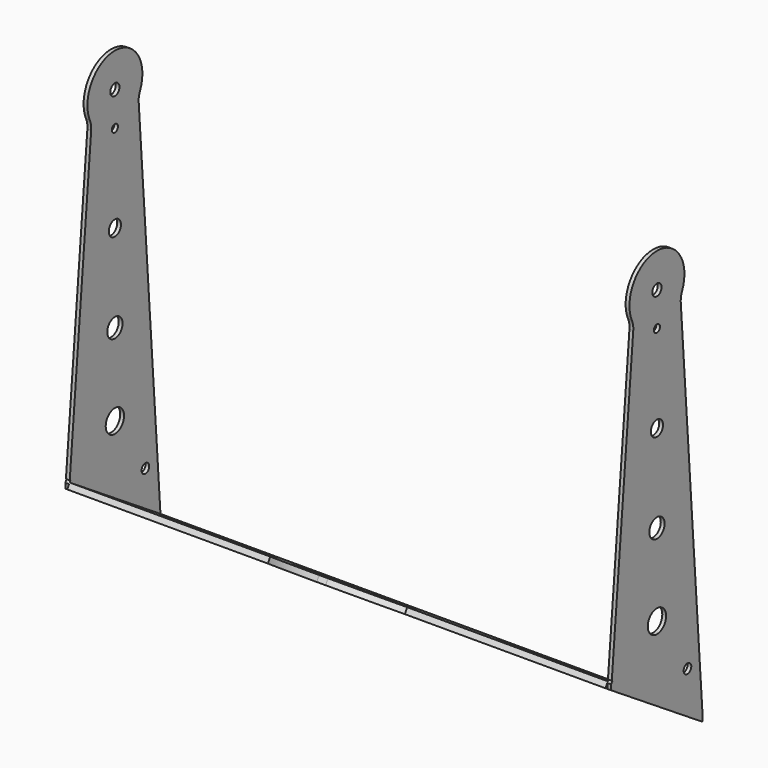
from build123d import *

# Parameters (mm, degrees)
F1_DEPTH  = 30
F5_W      = 282
F5_H      = 120
F6_DEPTH  = 3
F7_W      = 43.7729824334
F7_H      = 28.8367732428
F8_DEPTH  = 200
F9_W      = 426.6595542431
F9_H      = 302.5457262993
F10_DEPTH = 178.83968
F12_DEPTH = 3.8062
F13_R     = 5
F14_DEPTH = 5.03518
F16_DEPTH = 250
F17_R     = 3
F17_R_2   = 2
F17_R_3   = 4
F17_R_4   = 5
F17_R_5   = 6
F17_R_6   = 2.5
F18_DEPTH = 160


with BuildPart() as f1:
    # F0 (on Front) → F1 (new body, symmetric)
    with BuildSketch(Plane.XZ):
        Polygon((-143, 230), (-143, 0), (143, 0), (143, 230), (141, 230), (141, 2), (-141, 2), (-141, 230), align=None)
    extrude(amount=F1_DEPTH, both=True)

    # F5 (on line) → F6 (join)
    with BuildSketch(Plane(origin=(0, 9.1354545764, 14.0673664308), x_dir=(1, 0, 0), z_dir=(0, 0.544639035, 0.8386705679))):
        Rectangle(F5_W, F5_H)
    extrude(amount=F6_DEPTH)

    # F7 (on Right) → F8 (cut, symmetric)
    with BuildSketch(Plane.YZ):
        with Locations((51.9040221355, -7.7139467467)):
            Rectangle(F7_W, F7_H)
    extrude(amount=F8_DEPTH, both=True, mode=Mode.SUBTRACT)

    # F9 (on line) → F10 (cut)
    with BuildSketch(Plane(origin=(0, 9.1354545764, 14.0673664308), x_dir=(1, 0, 0), z_dir=(0, 0.544639035, 0.8386705679))):
        Rectangle(F9_W, F9_H)
    extrude(amount=-F10_DEPTH, mode=Mode.SUBTRACT)

    # F11 (on line) → F12 (cut)
    with BuildSketch(Plane(origin=(0, 9.1354545764, 14.0673664308), x_dir=(1, 0, 0), z_dir=(0, 0.544639035, 0.8386705679))):
        with BuildLine():
            Line((-35.8740181322, -48.1499919599), (-147.1929774903, -48.1499919599))
            Line((-147.1929774903, -48.1499919599), (-147.1929774903, -83.3061976281))
            Line((-147.1929774903, -83.3061976281), (146.3554831755, -83.3061976281))
            Line((146.3554831755, -83.3061976281), (146.3554831755, -48.1499919599))
            Line((146.3554831755, -48.1499919599), (35.8740181322, -48.1499919599))
            ThreePointArc((35.8740181322, -48.1499919599), (0, -60.0447075327), (-35.8740181322, -48.1499919599))
        make_face()
    extrude(amount=F12_DEPTH, mode=Mode.SUBTRACT)

    # F13 (on line) → F14 (cut)
    with BuildSketch(Plane(origin=(0, 9.1354545764, 14.0673664308), x_dir=(1, 0, 0), z_dir=(0, 0.544639035, 0.8386705679))):
        with Locations((0, -10.8780780347)):
            Circle(F13_R)
        with BuildLine():
            ThreePointArc((0, -40.4202267205), (2.1637354956, -42.2413960688), (2.9932901548, -44.9451431276))
            ThreePointArc((2.9932901548, -44.9451431276), (4.9922933203, -44.7672054535), (6.9813866372, -44.5004035637))
            ThreePointArc((6.9813866372, -44.5004035637), (5.3606612707, -41.2920368002), (2.0064089085, -40))
            Line((2.0064089085, -40), (1.8917191601, -40))
            ThreePointArc((1.8917191601, -40), (1.8377091807, -40.0025177501), (1.7836958509, -40.0049625733))
            ThreePointArc((1.7836958509, -40.0049625733), (0.8726729327, -40.1302317573), (0, -40.4202267205))
        make_face()
        with BuildLine():
            ThreePointArc((6.9813866372, -44.5004035637), (4.9922933203, -44.7672054535), (2.9932901548, -44.9451431276))
            ThreePointArc((2.9932901548, -44.9451431276), (2.1937501825, -47.7126856822), (0, -49.5797732795))
            ThreePointArc((0, -49.5797732795), (0.9814372986, -49.8938158117), (2.0064089085, -50))
            ThreePointArc((2.0064089085, -50), (2.1177930783, -49.9987592027), (2.2291219661, -49.9950374267))
            ThreePointArc((2.2291219661, -49.9950374267), (5.7881740651, -48.2708182922), (6.9813866372, -44.5004035637))
        make_face()
        with BuildLine():
            ThreePointArc((2.0064089085, -40), (5.3606612707, -41.2920368002), (6.9813866372, -44.5004035637))
            ThreePointArc((6.9813866372, -44.5004035637), (5.7881740651, -48.2708182922), (2.2291219661, -49.9950374267))
            ThreePointArc((2.2291219661, -49.9950374267), (16.8043601395, -47.1390096665), (29.8994669009, -40.1309684792))
            ThreePointArc((29.8994669009, -40.1309684792), (30.9217030257, -33.1341811231), (23.9249156696, -32.1119449984))
            ThreePointArc((23.9249156696, -32.1119449984), (13.4974075811, -37.7014401578), (1.8917191601, -40))
            Line((1.8917191601, -40), (2.0064089085, -40))
        make_face()
        with BuildLine():
            ThreePointArc((-1.7836958509, -40.0049625733), (-0.8726729327, -40.1302317574), (0, -40.4202267205))
            ThreePointArc((0, -40.4202267205), (0.8726729327, -40.1302317573), (1.7836958509, -40.0049625733))
            ThreePointArc((1.7836958509, -40.0049625733), (1.8377091807, -40.0025177501), (1.8917191601, -40))
            Line((1.8917191601, -40), (-1.8917191601, -40))
            ThreePointArc((-1.8917191601, -40), (-1.8377091807, -40.0025177501), (-1.7836958509, -40.0049625733))
        make_face()
        with BuildLine():
            ThreePointArc((-2.9932901548, -44.9451431276), (-2.1637354956, -42.2413960688), (0, -40.4202267205))
            ThreePointArc((0, -40.4202267205), (-0.8726729327, -40.1302317574), (-1.7836958509, -40.0049625733))
            ThreePointArc((-1.7836958509, -40.0049625733), (-1.8377091807, -40.0025177501), (-1.8917191601, -40))
            Line((-1.8917191601, -40), (-2.0064089085, -40))
            ThreePointArc((-2.0064089085, -40), (-5.3606612707, -41.2920368002), (-6.9813866372, -44.5004035637))
            ThreePointArc((-6.9813866372, -44.5004035637), (-4.9922933203, -44.7672054535), (-2.9932901548, -44.9451431276))
        make_face()
        with BuildLine():
            ThreePointArc((-2.0064089085, -50), (-0.9814372986, -49.8938158117), (0, -49.5797732795))
            ThreePointArc((0, -49.5797732795), (-2.1937501825, -47.7126856822), (-2.9932901548, -44.9451431276))
            ThreePointArc((-2.9932901548, -44.9451431276), (-4.9922933203, -44.7672054535), (-6.9813866372, -44.5004035637))
            ThreePointArc((-6.9813866372, -44.5004035637), (-5.7881740651, -48.2708182922), (-2.2291219661, -49.9950374267))
            ThreePointArc((-2.2291219661, -49.9950374267), (-2.1177930783, -49.9987592027), (-2.0064089085, -50))
        make_face()
        with BuildLine():
            ThreePointArc((2.0064089085, -50), (0.9814372986, -49.8938158117), (0, -49.5797732795))
            ThreePointArc((0, -49.5797732795), (-0.9814372986, -49.8938158117), (-2.0064089085, -50))
            Line((-2.0064089085, -50), (2.0064089085, -50))
        make_face()
        with BuildLine():
            ThreePointArc((-2.2291219661, -49.9950374267), (-5.7881740651, -48.2708182922), (-6.9813866372, -44.5004035637))
            ThreePointArc((-6.9813866372, -44.5004035637), (-5.3606612707, -41.2920368002), (-2.0064089085, -40))
            Line((-2.0064089085, -40), (-1.8917191601, -40))
            ThreePointArc((-1.8917191601, -40), (-13.4974075811, -37.7014401578), (-23.9249156696, -32.1119449984))
            ThreePointArc((-23.9249156696, -32.1119449984), (-30.9217030257, -33.1341811231), (-29.8994669009, -40.1309684792))
            ThreePointArc((-29.8994669009, -40.1309684792), (-16.8043601395, -47.1390096665), (-2.2291219661, -49.9950374267))
        make_face()
        with BuildLine():
            ThreePointArc((63, -6.1009786912), (58, -11.1009786912), (63, -16.1009786912))
            Line((63, -16.1009786912), (113, -16.1009786912))
            ThreePointArc((113, -16.1009786912), (118, -11.1009786912), (113, -6.1009786912))
            Line((113, -6.1009786912), (63, -6.1009786912))
        make_face()
        with BuildLine():
            ThreePointArc((-63, -16.1009786912), (-58, -11.1009786912), (-63, -6.1009786912))
            Line((-63, -6.1009786912), (-113, -6.1009786912))
            ThreePointArc((-113, -6.1009786912), (-118, -11.1009786912), (-113, -16.1009786912))
            Line((-113, -16.1009786912), (-63, -16.1009786912))
        make_face()
        with BuildLine():
            Line((-2.0064089085, -45), (2.0064089085, -45))
            ThreePointArc((2.0064089085, -45), (2.5, -44.9752785062), (2.9932901548, -44.9451431276))
            ThreePointArc((2.9932901548, -44.9451431276), (2.1637354956, -42.2413960688), (0, -40.4202267205))
            ThreePointArc((0, -40.4202267205), (-2.1637354956, -42.2413960688), (-2.9932901548, -44.9451431276))
            ThreePointArc((-2.9932901548, -44.9451431276), (-2.5, -44.9752785062), (-2.0064089085, -45))
        make_face()
        with BuildLine():
            ThreePointArc((2.9932901548, -44.9451431276), (2.5, -44.9752785062), (2.0064089085, -45))
            Line((2.0064089085, -45), (-2.0064089085, -45))
            ThreePointArc((-2.0064089085, -45), (-2.5, -44.9752785062), (-2.9932901548, -44.9451431276))
            ThreePointArc((-2.9932901548, -44.9451431276), (-2.1937501825, -47.7126856822), (0, -49.5797732795))
            ThreePointArc((0, -49.5797732795), (2.1937501825, -47.7126856822), (2.9932901548, -44.9451431276))
        make_face()
    extrude(amount=F14_DEPTH, mode=Mode.SUBTRACT)

    # F15 (on Right) → F16 (cut, symmetric)
    with BuildSketch(Plane.YZ):
        with BuildLine():
            ThreePointArc((-16.3768878257, 204.5302245586), (-0.0754798588, 229.9998417435), (16.4389577327, 204.6678332901))
            ThreePointArc((16.4389577327, 204.6678332901), (15.7076024778, 202.2373750115), (15.6116939447, 199.7010766248))
            Line((15.6116939447, 199.7010766248), (30.1540475339, 0))
            Line((30.1540475339, 0), (77.6267153025, 0))
            Line((77.6267153025, 0), (77.6267153025, 43.465353315))
            Line((77.6267153025, 43.465353315), (77.6267153025, 273.465353315))
            Line((77.6267153025, 273.465353315), (-42.3732846975, 273.465353315))
            Line((-42.3732846975, 273.465353315), (-42.3732846975, 52.13252455))
            Line((-42.3732846975, 52.13252455), (-29.599333182, 43.482657522))
            Line((-29.599333182, 43.482657522), (-15.5156644868, 199.4811984753))
            ThreePointArc((-15.5156644868, 199.4811984753), (-15.6175338066, 202.0617858131), (-16.3768878257, 204.5302245586))
        make_face()
    extrude(amount=F16_DEPTH, both=True, mode=Mode.SUBTRACT)

    # F17 (on Right) → F18 (cut, symmetric)
    with BuildSketch(Plane.YZ):
        with Locations((0, 212)):
            Circle(F17_R)
        with Locations((0, 194.167)):
            Circle(F17_R_2)
        with Locations((0, 148.167)):
            Circle(F17_R_3)
        with Locations((0, 102.167)):
            Circle(F17_R_4)
        with Locations((0, 59.167)):
            Circle(F17_R_5)
        with Locations((20, 29.167)):
            Circle(F17_R_6)
    extrude(amount=F18_DEPTH, both=True, mode=Mode.SUBTRACT)


solid = f1.part
